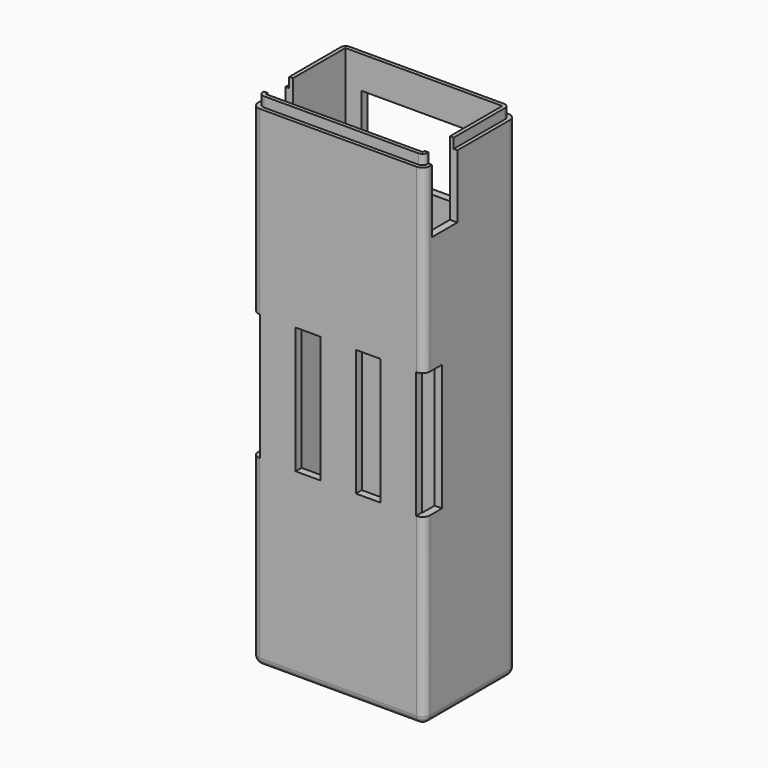
from build123d import *

# Parameters (mm, degrees)
SKETCH036_W          = 31.5
SKETCH036_H          = 20
PAD022_DEPTH         = 51
PAD022_DEPTH_BACK    = 48
THICKNESS006_T       = 1.5
POCKET008_DEPTH      = 49.501
SKETCH039_W          = 11.02125
SKETCH039_H          = 25.4
SKETCH039_W_2        = 5
POCKET010_DEPTH      = 5
SKETCH040_W          = 6.35
SKETCH040_H          = 15.173466
POCKET011_DEPTH      = 17.251
POCKET011_DEPTH_BACK = 17.251
SKETCH044_R          = 3.25
SKETCH044_W          = 25
SKETCH044_H          = 13.75
POCKET013_DEPTH      = 11.501
CHAMFER006_SIZE      = 1.25
SKETCH049_W          = 36.888542
SKETCH049_H          = 25.404094
SKETCH049_W_2        = 33
SKETCH049_H_2        = 21.5
POCKET015_DEPTH      = 2.001
FILLET008_R          = 1


with BuildPart() as part:
    # Sketch036 → Pad022 (new body, two sides)
    with BuildSketch(Plane.XY) as pad022_sk:
        Rectangle(SKETCH036_W, SKETCH036_H)
    extrude(amount=PAD022_DEPTH)
    extrude(pad022_sk.sketch, amount=-PAD022_DEPTH_BACK)

    # Thickness006
    thickness006_openings = [part.faces().sort_by_distance(p)[0] for p in [
        (0, 0, 51),
    ]]
    offset(amount=THICKNESS006_T, openings=thickness006_openings)

    # Sketch037 → Pocket008 (cut, through all)
    with BuildSketch(Plane.XY):
        Polygon((-4.25, 9), (4.25, 9), (4.25, 7.25), (2.5, 5.5), (-2.5, 5.5), (-4.25, 7.25), align=None)
    extrude(amount=-POCKET008_DEPTH, mode=Mode.SUBTRACT)

    # Sketch039 → Pocket010 (cut)
    with BuildSketch(Plane.XZ.offset(7)):
        with Locations((-21.146455, 0)):
            Rectangle(SKETCH039_W, SKETCH039_H)
        with Locations((-6.045277, 0)):
            Rectangle(SKETCH039_W_2, SKETCH039_H)
        with Locations((6.045277, 0)):
            Rectangle(SKETCH039_W_2, SKETCH039_H)
        with Locations((21.146455, 0)):
            Rectangle(SKETCH039_W, SKETCH039_H)
    extrude(amount=POCKET010_DEPTH, mode=Mode.SUBTRACT)

    # Sketch040 → Pocket011 (cut, two sides)
    with BuildSketch(Plane.YZ) as pocket011_sk:
        with Locations((-6.325, 43.836733)):
            Rectangle(SKETCH040_W, SKETCH040_H)
    extrude(amount=-POCKET011_DEPTH, mode=Mode.SUBTRACT)
    extrude(pocket011_sk.sketch, amount=POCKET011_DEPTH_BACK, mode=Mode.SUBTRACT)

    # Sketch044 → Pocket013 (cut, through all)
    with BuildSketch(Plane.XZ):
        with Locations((-5.08, 17)):
            Circle(SKETCH044_R)
        with Locations((5.08, 17)):
            Circle(SKETCH044_R)
        with Locations((0, 37.625)):
            Rectangle(SKETCH044_W, SKETCH044_H)
    extrude(amount=-POCKET013_DEPTH, mode=Mode.SUBTRACT)

    # Chamfer006
    chamfer006_edges = [part.edges().sort_by_distance(p)[0] for p in [
        (1.83, 11.5, 17),
        (-8.33, 11.5, 17),
    ]]
    chamfer(chamfer006_edges, length=CHAMFER006_SIZE)

    # Sketch049 → Pocket015 (cut, through all)
    with BuildSketch(Plane.XY.offset(49)):
        Rectangle(SKETCH049_W, SKETCH049_H)
        Rectangle(SKETCH049_W_2, SKETCH049_H_2, mode=Mode.SUBTRACT)
    extrude(amount=POCKET015_DEPTH, mode=Mode.SUBTRACT)

    # Fillet008
    fillet008_edges = [part.edges().sort_by_distance(p)[0] for p in [
        (-16.5, 10.75, 50),
        (-16.5, -10.75, 50),
        (16.5, -10.75, 50),
        (16.5, 10.75, 50),
    ]]
    fillet(fillet008_edges, radius=FILLET008_R)


solid = part.part
